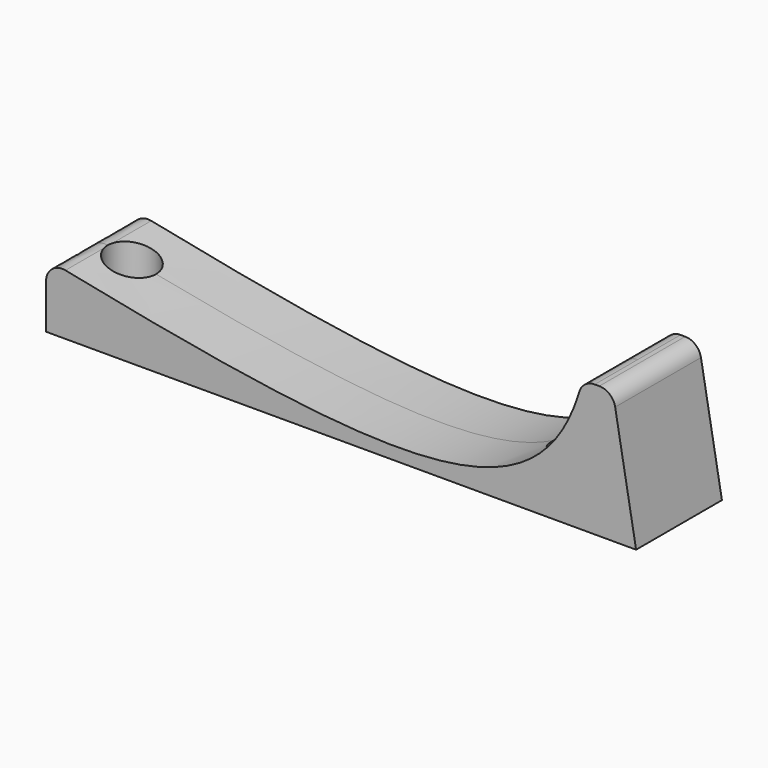
from build123d import *

# Parameters (mm, degrees)
F1_DEPTH = 10
F2_R     = 3
F4_R     = 4.5
F5_DEPTH = 22.6211939253
F6_R     = 2.25
F7_DEPTH = 2.0010001


with BuildPart() as f1:
    # F0 (on Front) → F1 (new body, symmetric)
    with BuildSketch(Plane.XZ):
        with BuildLine():
            add(Edge.make_bspline(
                [(0, 12), (66.9550430253, -1.9531170396), (93.0146408351, -3.1716877372), (100, 24.6201938253)],
                knots=[0, 0, 0, 0, 84.8143811399, 84.8143811399, 84.8143811399, 84.8143811399], degree=3))
            Line((0, 12), (0, 0))
            Line((0, 0), (110, 0))
            Line((110, 0), (105.6587955583, 24.6201938253))
            Line((105.6587955583, 24.6201938253), (100, 24.6201938253))
        make_face()
    extrude(amount=F1_DEPTH, both=True)

    # F2
    f2_edges = [f1.edges().sort_by_distance(p)[0] for p in [
        (0, 5, 12),
        (0, -5, 12),
        (100, 5, 24.620194),
        (100, -5, 24.620194),
        (105.658796, 0, 24.620194),
    ]]
    fillet(f2_edges, radius=F2_R)

    # F4 (on offset) → F5 (cut, through all)
    with BuildSketch(Plane.XY.offset(2)):
        with Locations((8, 0)):
            Circle(F4_R)
        with Locations((91.0959199238, 0)):
            Circle(F4_R)
    extrude(amount=F5_DEPTH, mode=Mode.SUBTRACT)

    # F6 (on offset) → F7 (cut, through all)
    with BuildSketch(Plane.XY.offset(2)):
        with Locations((91.0959199238, 0)):
            Circle(F6_R)
        with Locations((8, 0)):
            Circle(F6_R)
    extrude(amount=-F7_DEPTH, mode=Mode.SUBTRACT)


solid = f1.part
